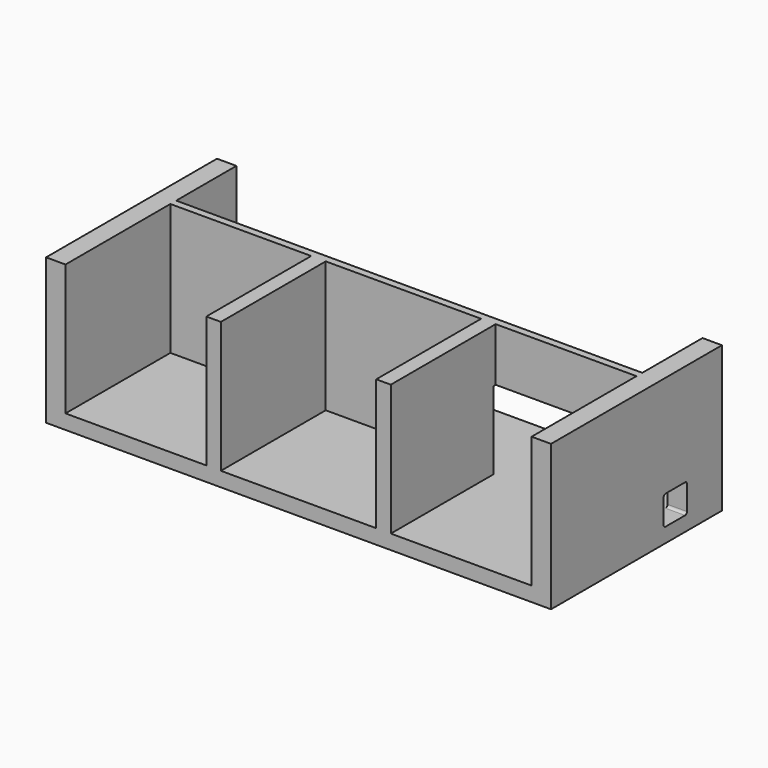
from build123d import *

# Parameters (mm, degrees)
F0_W     = 1320.8
F0_H     = 558.8
F1_DEPTH = 38.1
F2_W     = 38.1
F2_H     = 342.9
F3_DEPTH = 342.9
F5_DEPTH = 148.844
F6_W     = 508
F6_H     = 203.2
F7_DEPTH = 25.4


with BuildPart() as f1:
    # F0 (on Top) → F1 (new body)
    with BuildSketch(Plane.XY):
        with Locations((0.016812, -382.564251)):
            Rectangle(F0_W, F0_H)
    extrude(amount=F1_DEPTH)

    # F2 (on face) → F3 (join)
    with BuildSketch(Plane.XY.offset(38.1)):
        Polygon((-609.583188, -103.164251), (-660.383188, -103.164251), (-660.383188, -661.964251), (-609.583188, -661.964251), (-609.583188, -319.064251), (-609.583188, -300.014251), align=None)
        Polygon((609.616812, -300.014251), (-609.583188, -300.014251), (-609.583188, -319.064251), (-241.283188, -319.064251), (-203.183188, -319.064251), (203.216812, -319.064251), (241.316812, -319.064251), (609.616812, -319.064251), align=None)
        Polygon((609.616812, -103.164251), (609.616812, -300.014251), (609.616812, -319.064251), (609.616812, -661.964251), (660.416812, -661.964251), (660.416812, -103.164251), align=None)
        with Locations((-222.233188, -490.514251)):
            Rectangle(F2_W, F2_H)
        with Locations((222.266812, -490.514251)):
            Rectangle(F2_W, F2_H)
    extrude(amount=F3_DEPTH)

    # F4 (on face) → F5 (cut)
    with BuildSketch(Plane.YZ.offset(660.416812)):
        with BuildLine():
            Line((-223.814251, 114.3), (-287.314251, 114.3))
            ThreePointArc((-287.314251, 114.3), (-291.804379, 112.440128), (-293.664251, 107.95))
            Line((-293.664251, 107.95), (-293.664251, 44.45))
            ThreePointArc((-293.664251, 44.45), (-291.804379, 39.959872), (-287.314251, 38.1))
            Line((-287.314251, 38.1), (-223.814251, 38.1))
            ThreePointArc((-223.814251, 38.1), (-219.324123, 39.959872), (-217.464251, 44.45))
            Line((-217.464251, 44.45), (-217.464251, 107.95))
            ThreePointArc((-217.464251, 107.95), (-219.324123, 112.440128), (-223.814251, 114.3))
        make_face()
    extrude(amount=-F5_DEPTH, mode=Mode.SUBTRACT)

    # F6 (on face) → F7 (cut)
    with BuildSketch(Plane(origin=(0, -300.014251, 0), x_dir=(-1, 0, 0), z_dir=(0, 1, 0))):
        with Locations((-320.029565, 139.7)):
            Rectangle(F6_W, F6_H)
    extrude(amount=-F7_DEPTH, mode=Mode.SUBTRACT)


solid = f1.part
